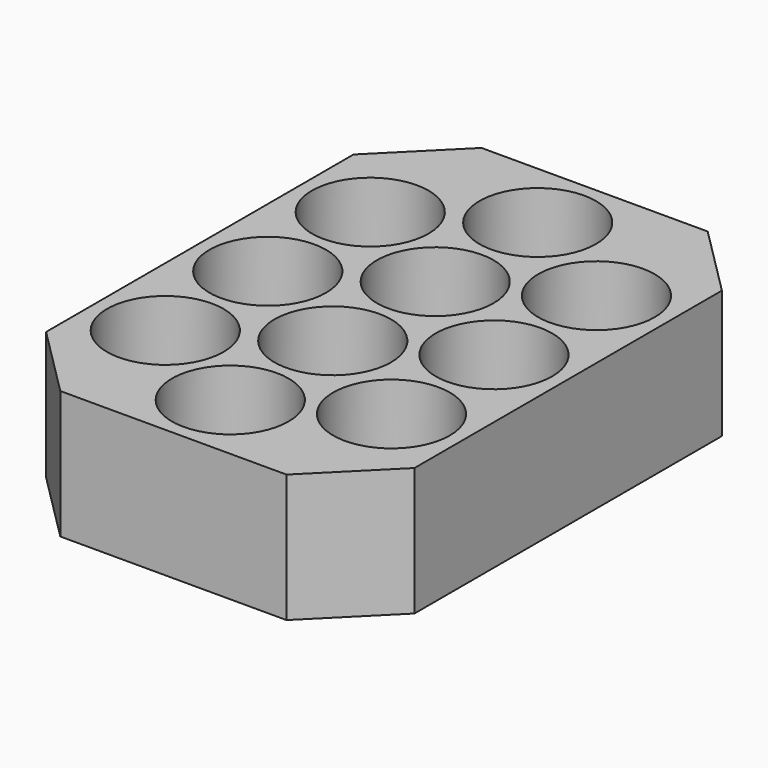
from build123d import *

# Parameters (mm, degrees)
F0_R     = 9.1
F1_DEPTH = 20


with BuildPart() as f1:
    # F0 (on Top) → F1 (new body)
    with BuildSketch(Plane.XY):
        Polygon((-17.658952, 71.1), (-28.758952, 60), (-28.758952, 0), (-17.658952, -11.1), (17.658952, -11.1), (28.758952, 0), (28.758952, 60), (17.658952, 71.1), align=None)
        with Locations((-17.658952, 9.389431)):
            Circle(F0_R, mode=Mode.SUBTRACT)
        with Locations((-17.658952, 29.389431)):
            Circle(F0_R, mode=Mode.SUBTRACT)
        Circle(F0_R, mode=Mode.SUBTRACT)
        with Locations((17.658952, 9.389431)):
            Circle(F0_R, mode=Mode.SUBTRACT)
        with Locations((0, 20)):
            Circle(F0_R, mode=Mode.SUBTRACT)
        with Locations((17.658952, 29.389431)):
            Circle(F0_R, mode=Mode.SUBTRACT)
        with Locations((-17.658952, 49.389431)):
            Circle(F0_R, mode=Mode.SUBTRACT)
        with Locations((0, 40)):
            Circle(F0_R, mode=Mode.SUBTRACT)
        with Locations((17.658952, 49.389431)):
            Circle(F0_R, mode=Mode.SUBTRACT)
        with Locations((0, 60)):
            Circle(F0_R, mode=Mode.SUBTRACT)
    extrude(amount=F1_DEPTH)


solid = f1.part
